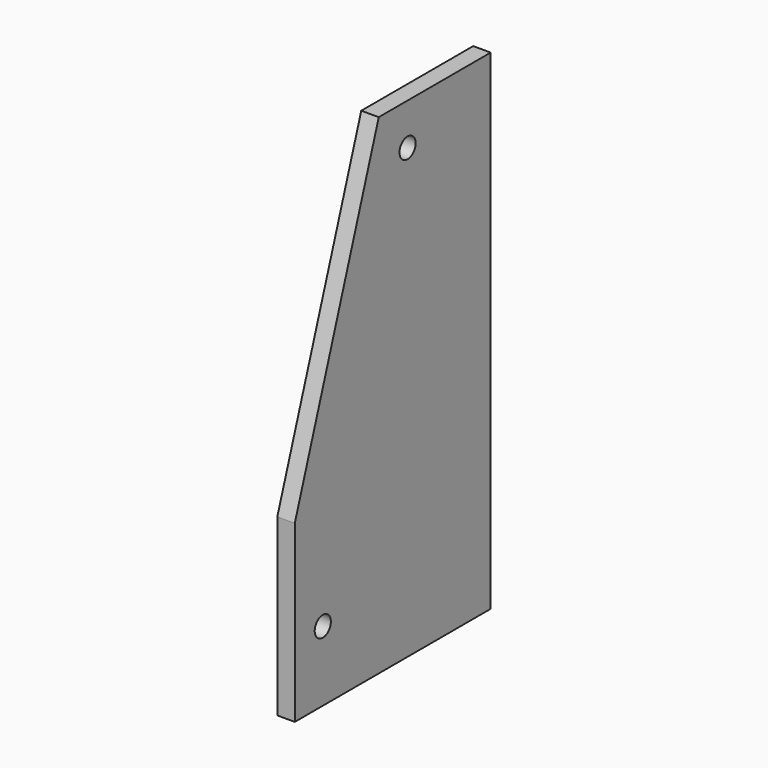
from build123d import *

# Parameters (mm, degrees)
F0_R     = 7.3279
F1_DEPTH = 12.7


with BuildPart() as f1:
    # F0 (on Right) → F1 (new body)
    with BuildSketch(Plane.YZ):
        Polygon((0, 127), (0, 0), (177.8, 0), (177.8, 355.6), (76.2, 355.6), align=None)
        with Locations((25.4, 50.8)):
            Circle(F0_R, mode=Mode.SUBTRACT)
        with Locations((102.366317, 325.38281)):
            Circle(F0_R, mode=Mode.SUBTRACT)
    extrude(amount=F1_DEPTH)


solid = f1.part
